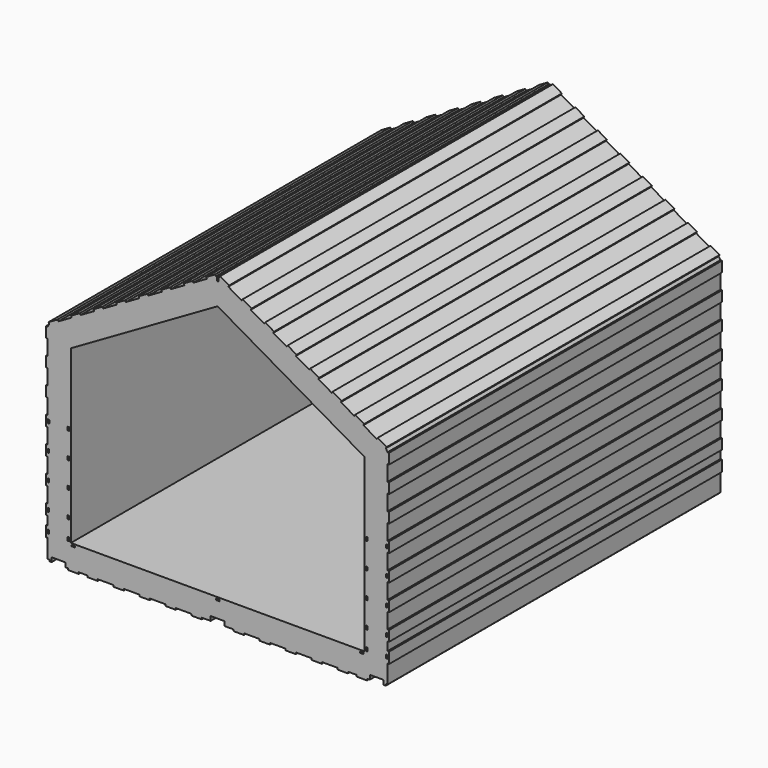
from build123d import *

# Parameters (mm, degrees)
F0_W     = 18
F0_H     = 40
F0_W_2   = 40
F0_H_2   = 13.258119
F0_W_3   = 19.326058
F0_W_4   = 19.326059
F0_W_5   = 180
F0_H_3   = 18
F0_W_6   = 100
F0_W_7   = 123.318
F0_H_4   = 100
F0_H_5   = 180
F1_DEPTH = 4800


with BuildPart() as f1:
    # F0 (on Front) → F1 (new body)
    with BuildSketch(Plane.XZ):
        Polygon((-1940.099338, -878.0585), (-1940.099338, -978.0585), (-1958.099338, -978.0585), (-1958.099338, -1103.8295), (-1940.099338, -1103.8295), (-1940.099338, -1317.8245), (-1920.099338, -1317.8245), (-1920.099338, -1335.8245), (-1895.099338, -1335.8245), (-1895.099338, -1285.8245), (-1735.099338, -1285.8245), (-1735.099338, -1335.8245), (-1702.333338, -1335.8245), (-1702.333338, -1353.8245), (-1582.333338, -1353.8245), (-1582.333338, -1335.8245), (-1482.333338, -1335.8245), (-1482.333338, -1353.8245), (-1362.333338, -1353.8245), (-1362.333338, -1335.8245), (-1182.333338, -1335.8245), (-1182.333338, -1353.8245), (-1062.333338, -1353.8245), (-1062.333338, -1335.8245), (-882.333338, -1335.8245), (-882.333338, -1353.8245), (-762.333338, -1353.8245), (-762.333338, -1335.8245), (-582.333338, -1335.8245), (-582.333338, -1353.8245), (-462.333338, -1353.8245), (-462.333338, -1335.8245), (-282.333338, -1335.8245), (-282.333338, -1353.8245), (-162.333338, -1353.8245), (-162.333338, -1335.8245), (-59.013338, -1335.8245), (-59.013338, -1285.8245), (20.984662, -1285.8245), (100.982662, -1285.8245), (100.982662, -1335.8245), (204.302662, -1335.8245), (204.302662, -1353.8245), (324.302662, -1353.8245), (324.302662, -1335.8245), (504.302662, -1335.8245), (504.302662, -1353.8245), (624.302662, -1353.8245), (624.302662, -1335.8245), (804.302662, -1335.8245), (804.302662, -1353.8245), (924.302662, -1353.8245), (924.302662, -1335.8245), (1104.302662, -1335.8245), (1104.302662, -1353.8245), (1224.302662, -1353.8245), (1224.302662, -1335.8245), (1404.302662, -1335.8245), (1404.302662, -1353.8245), (1524.302662, -1353.8245), (1524.302662, -1335.8245), (1624.302662, -1335.8245), (1624.302662, -1353.8245), (1744.302662, -1353.8245), (1744.302662, -1335.8245), (1777.068662, -1335.8245), (1777.068662, -1285.8245), (1937.068662, -1285.8245), (1937.068662, -1335.8245), (1962.068662, -1335.8245), (1962.068662, -1317.8245), (1982.068662, -1317.8245), (1982.068662, -1103.8295), (2000.068662, -1103.8295), (2000.068662, -978.0585), (1982.068662, -978.0585), (1982.068662, -878.0585), (2000.068662, -878.0585), (2000.068662, -758.0585), (1982.068662, -758.0585), (1982.068662, -578.0585), (2000.068662, -578.0585), (2000.068662, -458.0585), (1982.068662, -458.0585), (1982.068662, -278.0585), (2000.068662, -278.0585), (2000.068662, -158.0585), (1982.068662, -158.0585), (1982.068662, 21.9415), (2000.068662, 21.9415), (2000.068662, 141.9415), (1982.068662, 141.9415), (1982.068662, 321.9415), (2000.068662, 321.9415), (2000.068662, 441.9415), (1982.068662, 441.9415), (1982.068662, 621.9415), (2000.068662, 621.9415), (2000.068662, 741.9415), (1982.068662, 741.9415), (1982.068662, 921.9415), (2000.068662, 921.9415), (2000.068662, 1041.9415), (1982.068662, 1041.9415), (1962.814097, 1075.286616), (1971.813787, 1090.875253), (1867.889542, 1150.873182), (1858.889853, 1135.284545), (1703.003487, 1225.281438), (1712.003176, 1240.870075), (1608.078932, 1300.868003), (1599.079242, 1285.279367), (1443.192876, 1375.276259), (1452.192565, 1390.864896), (1348.268321, 1450.862825), (1339.268631, 1435.274188), (1183.382265, 1525.271081), (1192.381954, 1540.859718), (1088.45771, 1600.857646), (1079.458021, 1585.26901), (923.571654, 1675.265903), (932.571343, 1690.854539), (828.647099, 1750.852468), (819.64741, 1735.263831), (663.761043, 1825.260724), (672.760732, 1840.849361), (568.836488, 1900.847289), (559.836799, 1885.258653), (403.950432, 1975.255546), (412.950122, 1990.844182), (309.025877, 2050.842111), (300.026188, 2035.253474), (144.139821, 2125.250367), (153.139511, 2140.839004), (49.215266, 2200.836932), (40.215577, 2185.248296), (29.96778, 2191.164591), (29.96778, 2141.169591), (21.001543, 2141.169591), (20.96778, 2141.169591), (12.001543, 2141.169591), (12.001543, 2191.164591), (1.753747, 2185.248296), (-7.245943, 2200.836932), (-111.170187, 2140.839004), (-102.170498, 2125.250367), (-258.056864, 2035.253474), (-267.056554, 2050.842111), (-370.980798, 1990.844182), (-361.981109, 1975.255546), (-517.867475, 1885.258653), (-526.867164, 1900.847289), (-630.791409, 1840.849361), (-621.791719, 1825.260724), (-777.678086, 1735.263831), (-786.677775, 1750.852468), (-890.60202, 1690.854539), (-881.60233, 1675.265903), (-1037.488697, 1585.26901), (-1046.488386, 1600.857646), (-1150.41263, 1540.859718), (-1141.412941, 1525.271081), (-1297.299308, 1435.274188), (-1306.298997, 1450.862825), (-1410.223241, 1390.864896), (-1401.223552, 1375.276259), (-1557.109919, 1285.279367), (-1566.109608, 1300.868003), (-1670.033852, 1240.870075), (-1661.034163, 1225.281438), (-1816.920529, 1135.284545), (-1825.920219, 1150.873182), (-1929.844463, 1090.875253), (-1920.844774, 1075.286616), (-1940.099338, 1041.9415), (-1958.099338, 1041.9415), (-1958.099338, 921.9415), (-1940.099338, 921.9415), (-1940.099338, 741.9415), (-1958.099338, 741.9415), (-1958.099338, 621.9415), (-1940.099338, 621.9415), (-1940.099338, 441.9415), (-1958.099338, 441.9415), (-1958.099338, 321.9415), (-1940.099338, 321.9415), (-1940.099338, 141.9415), (-1958.099338, 141.9415), (-1958.099338, 21.9415), (-1940.099338, 21.9415), (-1940.099338, -158.0585), (-1958.099338, -158.0585), (-1958.099338, -278.0585), (-1940.099338, -278.0585), (-1940.099338, -458.0585), (-1958.099338, -458.0585), (-1958.099338, -578.0585), (-1940.099338, -578.0585), (-1940.099338, -758.0585), (-1958.099338, -758.0585), (-1958.099338, -878.0585), align=None)
        with Locations((-1931.099338, -1038.0585)):
            Rectangle(F0_W, F0_H, mode=Mode.SUBTRACT)
        with Locations((-1642.333338, -1092.453559)):
            Rectangle(F0_W_2, F0_H_2, mode=Mode.SUBTRACT)
        with Locations((-1699.099338, -1038.0585)):
            Rectangle(F0_W, F0_H, mode=Mode.SUBTRACT)
        with Locations((-1931.099338, -818.0585)):
            Rectangle(F0_W, F0_H, mode=Mode.SUBTRACT)
        with Locations((-1699.099338, -818.0585)):
            Rectangle(F0_W, F0_H, mode=Mode.SUBTRACT)
        with Locations((-1931.099338, -518.0585)):
            Rectangle(F0_W, F0_H, mode=Mode.SUBTRACT)
        with Locations((-1699.099338, -518.0585)):
            Rectangle(F0_W, F0_H, mode=Mode.SUBTRACT)
        with Locations((-1931.099338, -218.0585)):
            Rectangle(F0_W, F0_H, mode=Mode.SUBTRACT)
        with Locations((-1699.099338, -218.0585)):
            Rectangle(F0_W, F0_H, mode=Mode.SUBTRACT)
        with Locations((-1930.436309, 81.9415)):
            Rectangle(F0_W_3, F0_H, mode=Mode.SUBTRACT)
        with Locations((-1699.099338, 81.9415)):
            Rectangle(F0_W, F0_H, mode=Mode.SUBTRACT)
        Polygon((0.984662, -1103.8245), (0.984662, -1085.8245), (20.984662, -1085.8245), (40.984662, -1085.8245), (40.984662, -1103.8245), (20.984662, -1103.8245), align=None, mode=Mode.SUBTRACT)
        with Locations((1684.302662, -1092.453559)):
            Rectangle(F0_W_2, F0_H_2, mode=Mode.SUBTRACT)
        with Locations((1741.068662, -1038.0585)):
            Rectangle(F0_W, F0_H, mode=Mode.SUBTRACT)
        with Locations((1973.068662, -1038.0585)):
            Rectangle(F0_W, F0_H, mode=Mode.SUBTRACT)
        with Locations((1741.068662, -818.0585)):
            Rectangle(F0_W, F0_H, mode=Mode.SUBTRACT)
        with Locations((1973.068662, -818.0585)):
            Rectangle(F0_W, F0_H, mode=Mode.SUBTRACT)
        with Locations((1741.068662, -518.0585)):
            Rectangle(F0_W, F0_H, mode=Mode.SUBTRACT)
        with Locations((1973.068662, -518.0585)):
            Rectangle(F0_W, F0_H, mode=Mode.SUBTRACT)
        Polygon((-1672.099338, -1067.8245), (-1672.099338, -978.0585), (-1690.099338, -978.0585), (-1690.099338, -878.0585), (-1672.099338, -878.0585), (-1672.099338, -758.0585), (-1690.099338, -758.0585), (-1690.099338, -578.0585), (-1672.099338, -578.0585), (-1672.099338, -458.0585), (-1690.099338, -458.0585), (-1690.099338, -278.0585), (-1672.099338, -278.0585), (-1672.099338, -158.0585), (-1690.099338, -158.0585), (-1690.099338, 21.9415), (-1672.099338, 21.9415), (-1672.099338, 141.9415), (-1690.099338, 141.9415), (-1690.099338, 321.9415), (-1672.099338, 321.9415), (-1672.099338, 441.9415), (-1690.099338, 441.9415), (-1690.099338, 621.9415), (-1672.099338, 621.9415), (-1672.099338, 741.9415), (-1690.099338, 741.9415), (-1690.099338, 919.829611), (-1536.038478, 1008.772596), (-1527.038789, 993.183959), (-1423.114545, 1053.181888), (-1432.114234, 1068.770524), (-1276.227867, 1158.767417), (-1267.228178, 1143.17878), (-1163.303934, 1203.176709), (-1172.303623, 1218.765346), (-1016.417257, 1308.762239), (-1007.417567, 1293.173602), (-903.493323, 1353.171531), (-912.493012, 1368.760167), (-756.606646, 1458.75706), (-747.606956, 1443.168423), (-643.682712, 1503.166352), (-652.682401, 1518.754989), (-496.796035, 1608.751882), (-487.796346, 1593.163245), (-383.872101, 1653.161174), (-392.871791, 1668.74981), (-236.985424, 1758.746703), (-227.985735, 1743.158066), (-124.06149, 1803.155995), (-133.06118, 1818.744632), (20.984662, 1907.678946), (175.030503, 1818.744632), (166.030814, 1803.155995), (269.955058, 1743.158066), (278.954748, 1758.746703), (434.841114, 1668.74981), (425.841425, 1653.161174), (529.765669, 1593.163245), (538.765359, 1608.751882), (694.651725, 1518.754989), (685.652036, 1503.166352), (789.57628, 1443.168423), (798.575969, 1458.75706), (954.462336, 1368.760167), (945.462647, 1353.171531), (1049.386891, 1293.173602), (1058.38658, 1308.762239), (1214.272947, 1218.765346), (1205.273257, 1203.176709), (1309.197502, 1143.17878), (1318.197191, 1158.767417), (1474.083558, 1068.770524), (1465.083868, 1053.181888), (1569.008113, 993.183959), (1578.007802, 1008.772596), (1732.068662, 919.829611), (1732.068662, 741.9415), (1714.068662, 741.9415), (1714.068662, 621.9415), (1732.068662, 621.9415), (1732.068662, 441.9415), (1714.068662, 441.9415), (1714.068662, 321.9415), (1732.068662, 321.9415), (1732.068662, 141.9415), (1714.068662, 141.9415), (1714.068662, 21.9415), (1732.068662, 21.9415), (1732.068662, -158.0585), (1714.068662, -158.0585), (1714.068662, -278.0585), (1732.068662, -278.0585), (1732.068662, -458.0585), (1714.068662, -458.0585), (1714.068662, -578.0585), (1732.068662, -578.0585), (1732.068662, -758.0585), (1714.068662, -758.0585), (1714.068662, -878.0585), (1732.068662, -878.0585), (1732.068662, -978.0585), (1714.068662, -978.0585), (1714.068662, -1067.8245), (1624.302662, -1067.8245), (1624.302662, -1085.8245), (1524.302662, -1085.8245), (1524.302662, -1067.8245), (1404.302662, -1067.8245), (1404.302662, -1085.8245), (1224.302662, -1085.8245), (1224.302662, -1067.8245), (1104.302662, -1067.8245), (1104.302662, -1085.8245), (924.302662, -1085.8245), (924.302662, -1067.8245), (804.302662, -1067.8245), (804.302662, -1085.8245), (624.302662, -1085.8245), (624.302662, -1067.8245), (504.302662, -1067.8245), (504.302662, -1085.8245), (324.302662, -1085.8245), (324.302662, -1067.8245), (204.302662, -1067.8245), (204.302662, -1085.8245), (80.984662, -1085.8245), (80.984662, -1067.8245), (20.984662, -1067.8245), (-39.015338, -1067.8245), (-39.015338, -1085.8245), (-162.333338, -1085.8245), (-162.333338, -1067.8245), (-282.333338, -1067.8245), (-282.333338, -1085.8245), (-462.333338, -1085.8245), (-462.333338, -1067.8245), (-582.333338, -1067.8245), (-582.333338, -1085.8245), (-762.333338, -1085.8245), (-762.333338, -1067.8245), (-882.333338, -1067.8245), (-882.333338, -1085.8245), (-1062.333338, -1085.8245), (-1062.333338, -1067.8245), (-1182.333338, -1067.8245), (-1182.333338, -1085.8245), (-1362.333338, -1085.8245), (-1362.333338, -1067.8245), (-1482.333338, -1067.8245), (-1482.333338, -1085.8245), (-1582.333338, -1085.8245), (-1582.333338, -1067.8245), align=None, mode=Mode.SUBTRACT)
        with Locations((1741.068662, -218.0585)):
            Rectangle(F0_W, F0_H, mode=Mode.SUBTRACT)
        with Locations((1973.068662, -218.0585)):
            Rectangle(F0_W, F0_H, mode=Mode.SUBTRACT)
        with Locations((1741.068662, 81.9415)):
            Rectangle(F0_W, F0_H, mode=Mode.SUBTRACT)
        with Locations((1972.405632, 81.9415)):
            Rectangle(F0_W_4, F0_H, mode=Mode.SUBTRACT)
        with Locations((-1272.333338, -1076.8245)):
            Rectangle(F0_W_5, F0_H_3)
        with Locations((-1532.333338, -1076.8245)):
            Rectangle(F0_W_6, F0_H_3)
        with Locations((-972.333338, -1076.8245)):
            Rectangle(F0_W_5, F0_H_3)
        with Locations((-672.333338, -1076.8245)):
            Rectangle(F0_W_5, F0_H_3)
        with Locations((-372.333338, -1076.8245)):
            Rectangle(F0_W_5, F0_H_3)
        with Locations((-100.674338, -1076.8245)):
            Rectangle(F0_W_7, F0_H_3)
        with Locations((142.643662, -1076.8245)):
            Rectangle(F0_W_7, F0_H_3)
        with Locations((414.302662, -1076.8245)):
            Rectangle(F0_W_5, F0_H_3)
        with Locations((714.302662, -1076.8245)):
            Rectangle(F0_W_5, F0_H_3)
        with Locations((1014.302662, -1076.8245)):
            Rectangle(F0_W_5, F0_H_3)
        with Locations((1314.302662, -1076.8245)):
            Rectangle(F0_W_5, F0_H_3)
        with Locations((1574.302662, -1076.8245)):
            Rectangle(F0_W_6, F0_H_3)
        with Locations((1723.068662, -928.0585)):
            Rectangle(F0_W, F0_H_4)
        with Locations((1723.068662, -668.0585)):
            Rectangle(F0_W, F0_H_5)
        with Locations((1723.068662, -368.0585)):
            Rectangle(F0_W, F0_H_5)
        with Locations((1723.068662, -68.0585)):
            Rectangle(F0_W, F0_H_5)
        with Locations((1723.068662, 231.9415)):
            Rectangle(F0_W, F0_H_5)
        with Locations((1723.068662, 531.9415)):
            Rectangle(F0_W, F0_H_5)
        Polygon((1578.007802, 1008.772596), (1569.008113, 993.183959), (1714.068662, 909.437067), (1714.068662, 741.9415), (1732.068662, 741.9415), (1732.068662, 919.829611), align=None)
        Polygon((1318.197191, 1158.767417), (1309.197502, 1143.17878), (1465.083868, 1053.181888), (1474.083558, 1068.770524), align=None)
        Polygon((1058.38658, 1308.762239), (1049.386891, 1293.173602), (1205.273257, 1203.176709), (1214.272947, 1218.765346), align=None)
        Polygon((798.575969, 1458.75706), (789.57628, 1443.168423), (945.462647, 1353.171531), (954.462336, 1368.760167), align=None)
        Polygon((538.765359, 1608.751882), (529.765669, 1593.163245), (685.652036, 1503.166352), (694.651725, 1518.754989), align=None)
        Polygon((278.954748, 1758.746703), (269.955058, 1743.158066), (425.841425, 1653.161174), (434.841114, 1668.74981), align=None)
        Polygon((-133.06118, 1818.744632), (-124.06149, 1803.155995), (20.984662, 1886.894575), (166.030814, 1803.155995), (175.030503, 1818.744632), (20.984662, 1907.678946), align=None)
        Polygon((-392.871791, 1668.74981), (-383.872101, 1653.161174), (-227.985735, 1743.158066), (-236.985424, 1758.746703), align=None)
        Polygon((-652.682401, 1518.754989), (-643.682712, 1503.166352), (-487.796346, 1593.163245), (-496.796035, 1608.751882), align=None)
        Polygon((-912.493012, 1368.760167), (-903.493323, 1353.171531), (-747.606956, 1443.168423), (-756.606646, 1458.75706), align=None)
        Polygon((-1172.303623, 1218.765346), (-1163.303934, 1203.176709), (-1007.417567, 1293.173602), (-1016.417257, 1308.762239), align=None)
        Polygon((-1432.114234, 1068.770524), (-1423.114545, 1053.181888), (-1267.228178, 1143.17878), (-1276.227867, 1158.767417), align=None)
        Polygon((-1690.099338, 741.9415), (-1672.099338, 741.9415), (-1672.099338, 909.437067), (-1527.038789, 993.183959), (-1536.038478, 1008.772596), (-1690.099338, 919.829611), align=None)
        with Locations((-1681.099338, 531.9415)):
            Rectangle(F0_W, F0_H_5)
        with Locations((-1681.099338, -68.0585)):
            Rectangle(F0_W, F0_H_5)
        with Locations((-1681.099338, 231.9415)):
            Rectangle(F0_W, F0_H_5)
        with Locations((-1681.099338, -368.0585)):
            Rectangle(F0_W, F0_H_5)
        with Locations((-1681.099338, -668.0585)):
            Rectangle(F0_W, F0_H_5)
        with Locations((-1681.099338, -928.0585)):
            Rectangle(F0_W, F0_H_4)
    extrude(amount=F1_DEPTH)


solid = f1.part
